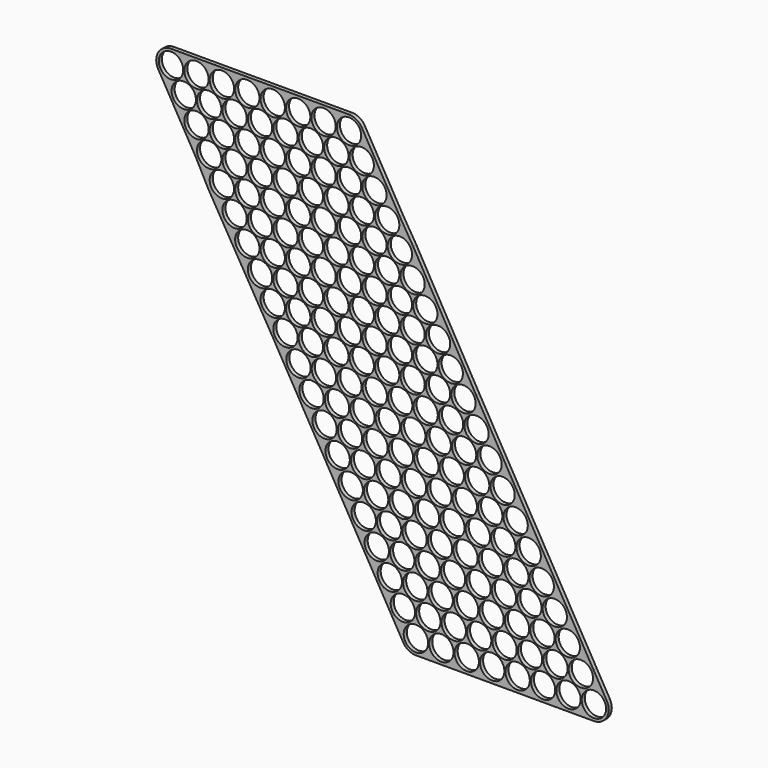
from build123d import *

# Parameters (mm, degrees)
F0_R     = 9.4
F1_DEPTH = 3


with BuildPart() as f1:
    # F0 (on Front) → F1 (new body)
    with BuildSketch(Plane.XZ):
        with BuildLine():
            Line((58.8, 11.4), (0, 11.4))
            ThreePointArc((0, 11.4), (-9.870808, 5.703258), (-9.87645, -5.693483))
            Line((-9.87645, -5.693483), (-0.07645, -22.693483))
            Line((-0.07645, -22.693483), (19.523115, -56.692727))
            Line((19.523115, -56.692727), (28.568722, -74.136112))
            Line((28.568722, -74.136112), (78.372954, -158.778276))
            Line((78.372954, -158.778276), (168.83219, -315.698266))
            Line((168.83219, -315.698266), (178.888915, -333.143605))
            ThreePointArc((178.888915, -333.143605), (183.062107, -337.32093), (188.765365, -338.850122))
            Line((188.765365, -338.850122), (325.965365, -338.850122))
            ThreePointArc((325.965365, -338.850122), (335.836173, -333.15338), (335.841814, -321.75664))
            Line((335.841814, -321.75664), (325.785103, -304.311325))
            Line((325.785103, -304.311325), (235.301621, -147.35044))
            Line((235.301621, -147.35044), (186.680475, -62.074651))
            Line((186.680475, -62.074651), (176.476014, -45.305762))
            Line((176.476014, -45.305762), (147.07645, 5.693483))
            ThreePointArc((147.07645, 5.693483), (142.903258, 9.870808), (137.2, 11.4))
            Line((137.2, 11.4), (98, 11.4))
            Line((98, 11.4), (58.8, 11.4))
        make_face()
        with Locations((158.595233, -275.114179)):
            Circle(F0_R, mode=Mode.SUBTRACT)
        with Locations((148.538522, -257.668864)):
            Circle(F0_R, mode=Mode.SUBTRACT)
        with Locations((138.481811, -240.22355)):
            Circle(F0_R, mode=Mode.SUBTRACT)
        with Locations((158.081811, -240.22355)):
            Circle(F0_R, mode=Mode.SUBTRACT)
        with Locations((128.4251, -222.778235)):
            Circle(F0_R, mode=Mode.SUBTRACT)
        with Locations((148.0251, -222.778235)):
            Circle(F0_R, mode=Mode.SUBTRACT)
        with Locations((118.36839, -205.332921)):
            Circle(F0_R, mode=Mode.SUBTRACT)
        with Locations((108.311679, -187.887606)):
            Circle(F0_R, mode=Mode.SUBTRACT)
        with Locations((98.254968, -170.442292)):
            Circle(F0_R, mode=Mode.SUBTRACT)
        with Locations((117.854968, -170.442292)):
            Circle(F0_R, mode=Mode.SUBTRACT)
        with Locations((137.96839, -205.332921)):
            Circle(F0_R, mode=Mode.SUBTRACT)
        with Locations((127.911679, -187.887606)):
            Circle(F0_R, mode=Mode.SUBTRACT)
        with Locations((157.56839, -205.332921)):
            Circle(F0_R, mode=Mode.SUBTRACT)
        with Locations((147.511679, -187.887606)):
            Circle(F0_R, mode=Mode.SUBTRACT)
        with Locations((137.454968, -170.442292)):
            Circle(F0_R, mode=Mode.SUBTRACT)
        with Locations((157.054968, -170.442292)):
            Circle(F0_R, mode=Mode.SUBTRACT)
        with Locations((188.765365, -327.450122)):
            Circle(F0_R, mode=Mode.SUBTRACT)
        with Locations((178.708654, -310.004808)):
            Circle(F0_R, mode=Mode.SUBTRACT)
        with Locations((198.308654, -310.004808)):
            Circle(F0_R, mode=Mode.SUBTRACT)
        with Locations((208.365365, -327.450122)):
            Circle(F0_R, mode=Mode.SUBTRACT)
        with Locations((227.965365, -327.450122)):
            Circle(F0_R, mode=Mode.SUBTRACT)
        with Locations((247.565365, -327.450122)):
            Circle(F0_R, mode=Mode.SUBTRACT)
        with Locations((217.908654, -310.004808)):
            Circle(F0_R, mode=Mode.SUBTRACT)
        with Locations((237.508654, -310.004808)):
            Circle(F0_R, mode=Mode.SUBTRACT)
        with Locations((168.651943, -292.559493)):
            Circle(F0_R, mode=Mode.SUBTRACT)
        with Locations((178.195233, -275.114179)):
            Circle(F0_R, mode=Mode.SUBTRACT)
        with Locations((188.251943, -292.559493)):
            Circle(F0_R, mode=Mode.SUBTRACT)
        with Locations((197.795233, -275.114179)):
            Circle(F0_R, mode=Mode.SUBTRACT)
        with Locations((168.138522, -257.668864)):
            Circle(F0_R, mode=Mode.SUBTRACT)
        with Locations((187.738522, -257.668864)):
            Circle(F0_R, mode=Mode.SUBTRACT)
        with Locations((207.851943, -292.559493)):
            Circle(F0_R, mode=Mode.SUBTRACT)
        with Locations((227.451943, -292.559493)):
            Circle(F0_R, mode=Mode.SUBTRACT)
        with Locations((217.395233, -275.114179)):
            Circle(F0_R, mode=Mode.SUBTRACT)
        with Locations((247.051943, -292.559493)):
            Circle(F0_R, mode=Mode.SUBTRACT)
        with Locations((236.995233, -275.114179)):
            Circle(F0_R, mode=Mode.SUBTRACT)
        with Locations((207.338522, -257.668864)):
            Circle(F0_R, mode=Mode.SUBTRACT)
        with Locations((226.938522, -257.668864)):
            Circle(F0_R, mode=Mode.SUBTRACT)
        with Locations((246.538522, -257.668864)):
            Circle(F0_R, mode=Mode.SUBTRACT)
        with Locations((267.165365, -327.450122)):
            Circle(F0_R, mode=Mode.SUBTRACT)
        with Locations((286.765365, -327.450122)):
            Circle(F0_R, mode=Mode.SUBTRACT)
        with Locations((257.108654, -310.004808)):
            Circle(F0_R, mode=Mode.SUBTRACT)
        with Locations((276.708654, -310.004808)):
            Circle(F0_R, mode=Mode.SUBTRACT)
        with Locations((306.365365, -327.450122)):
            Circle(F0_R, mode=Mode.SUBTRACT)
        with Locations((325.965365, -327.450122)):
            Circle(F0_R, mode=Mode.SUBTRACT)
        with Locations((296.308654, -310.004808)):
            Circle(F0_R, mode=Mode.SUBTRACT)
        with Locations((315.908654, -310.004808)):
            Circle(F0_R, mode=Mode.SUBTRACT)
        with Locations((266.651943, -292.559493)):
            Circle(F0_R, mode=Mode.SUBTRACT)
        with Locations((256.595233, -275.114179)):
            Circle(F0_R, mode=Mode.SUBTRACT)
        with Locations((286.251943, -292.559493)):
            Circle(F0_R, mode=Mode.SUBTRACT)
        with Locations((276.195233, -275.114179)):
            Circle(F0_R, mode=Mode.SUBTRACT)
        with Locations((266.138522, -257.668864)):
            Circle(F0_R, mode=Mode.SUBTRACT)
        with Locations((285.738522, -257.668864)):
            Circle(F0_R, mode=Mode.SUBTRACT)
        with Locations((305.851943, -292.559493)):
            Circle(F0_R, mode=Mode.SUBTRACT)
        with Locations((295.795233, -275.114179)):
            Circle(F0_R, mode=Mode.SUBTRACT)
        with Locations((177.681811, -240.22355)):
            Circle(F0_R, mode=Mode.SUBTRACT)
        with Locations((197.281811, -240.22355)):
            Circle(F0_R, mode=Mode.SUBTRACT)
        with Locations((167.6251, -222.778235)):
            Circle(F0_R, mode=Mode.SUBTRACT)
        with Locations((187.2251, -222.778235)):
            Circle(F0_R, mode=Mode.SUBTRACT)
        with Locations((216.881811, -240.22355)):
            Circle(F0_R, mode=Mode.SUBTRACT)
        with Locations((236.481811, -240.22355)):
            Circle(F0_R, mode=Mode.SUBTRACT)
        with Locations((206.8251, -222.778235)):
            Circle(F0_R, mode=Mode.SUBTRACT)
        with Locations((226.4251, -222.778235)):
            Circle(F0_R, mode=Mode.SUBTRACT)
        with Locations((246.0251, -222.778235)):
            Circle(F0_R, mode=Mode.SUBTRACT)
        with Locations((177.16839, -205.332921)):
            Circle(F0_R, mode=Mode.SUBTRACT)
        with Locations((167.111679, -187.887606)):
            Circle(F0_R, mode=Mode.SUBTRACT)
        with Locations((196.76839, -205.332921)):
            Circle(F0_R, mode=Mode.SUBTRACT)
        with Locations((186.711679, -187.887606)):
            Circle(F0_R, mode=Mode.SUBTRACT)
        with Locations((206.311679, -187.887606)):
            Circle(F0_R, mode=Mode.SUBTRACT)
        with Locations((176.654968, -170.442292)):
            Circle(F0_R, mode=Mode.SUBTRACT)
        with Locations((196.254968, -170.442292)):
            Circle(F0_R, mode=Mode.SUBTRACT)
        with Locations((216.36839, -205.332921)):
            Circle(F0_R, mode=Mode.SUBTRACT)
        with Locations((225.911679, -187.887606)):
            Circle(F0_R, mode=Mode.SUBTRACT)
        with Locations((235.96839, -205.332921)):
            Circle(F0_R, mode=Mode.SUBTRACT)
        with Locations((245.511679, -187.887606)):
            Circle(F0_R, mode=Mode.SUBTRACT)
        with Locations((215.854968, -170.442292)):
            Circle(F0_R, mode=Mode.SUBTRACT)
        with Locations((235.454968, -170.442292)):
            Circle(F0_R, mode=Mode.SUBTRACT)
        with Locations((256.081811, -240.22355)):
            Circle(F0_R, mode=Mode.SUBTRACT)
        with Locations((275.681811, -240.22355)):
            Circle(F0_R, mode=Mode.SUBTRACT)
        with Locations((265.6251, -222.778235)):
            Circle(F0_R, mode=Mode.SUBTRACT)
        with Locations((255.56839, -205.332921)):
            Circle(F0_R, mode=Mode.SUBTRACT)
        with Locations((68.598693, -118.997733)):
            Circle(F0_R, mode=Mode.SUBTRACT)
        with Locations((58.798911, -101.998111)):
            Circle(F0_R, mode=Mode.SUBTRACT)
        with Locations((48.999129, -84.998489)):
            Circle(F0_R, mode=Mode.SUBTRACT)
        with Locations((68.599129, -84.998489)):
            Circle(F0_R, mode=Mode.SUBTRACT)
        with Locations((88.198257, -152.996977)):
            Circle(F0_R, mode=Mode.SUBTRACT)
        with Locations((107.798257, -152.996977)):
            Circle(F0_R, mode=Mode.SUBTRACT)
        with Locations((78.398475, -135.997355)):
            Circle(F0_R, mode=Mode.SUBTRACT)
        with Locations((97.998475, -135.997355)):
            Circle(F0_R, mode=Mode.SUBTRACT)
        with Locations((117.598475, -135.997355)):
            Circle(F0_R, mode=Mode.SUBTRACT)
        with Locations((127.398257, -152.996977)):
            Circle(F0_R, mode=Mode.SUBTRACT)
        with Locations((146.998257, -152.996977)):
            Circle(F0_R, mode=Mode.SUBTRACT)
        with Locations((137.198475, -135.997355)):
            Circle(F0_R, mode=Mode.SUBTRACT)
        with Locations((156.798475, -135.997355)):
            Circle(F0_R, mode=Mode.SUBTRACT)
        with Locations((88.198693, -118.997733)):
            Circle(F0_R, mode=Mode.SUBTRACT)
        with Locations((78.398911, -101.998111)):
            Circle(F0_R, mode=Mode.SUBTRACT)
        with Locations((107.798693, -118.997733)):
            Circle(F0_R, mode=Mode.SUBTRACT)
        with Locations((97.998911, -101.998111)):
            Circle(F0_R, mode=Mode.SUBTRACT)
        with Locations((117.598911, -101.998111)):
            Circle(F0_R, mode=Mode.SUBTRACT)
        with Locations((88.199129, -84.998489)):
            Circle(F0_R, mode=Mode.SUBTRACT)
        with Locations((107.799129, -84.998489)):
            Circle(F0_R, mode=Mode.SUBTRACT)
        with Locations((127.398693, -118.997733)):
            Circle(F0_R, mode=Mode.SUBTRACT)
        with Locations((137.198911, -101.998111)):
            Circle(F0_R, mode=Mode.SUBTRACT)
        with Locations((146.998693, -118.997733)):
            Circle(F0_R, mode=Mode.SUBTRACT)
        with Locations((156.798911, -101.998111)):
            Circle(F0_R, mode=Mode.SUBTRACT)
        with Locations((127.399129, -84.998489)):
            Circle(F0_R, mode=Mode.SUBTRACT)
        with Locations((146.999129, -84.998489)):
            Circle(F0_R, mode=Mode.SUBTRACT)
        with Locations((29.399564, -50.999244)):
            Circle(F0_R, mode=Mode.SUBTRACT)
        with Locations((19.599782, -33.999622)):
            Circle(F0_R, mode=Mode.SUBTRACT)
        with Locations((39.199347, -67.998866)):
            Circle(F0_R, mode=Mode.SUBTRACT)
        with Locations((58.799347, -67.998866)):
            Circle(F0_R, mode=Mode.SUBTRACT)
        with Locations((48.999564, -50.999244)):
            Circle(F0_R, mode=Mode.SUBTRACT)
        with Locations((39.199782, -33.999622)):
            Circle(F0_R, mode=Mode.SUBTRACT)
        with Locations((68.599564, -50.999244)):
            Circle(F0_R, mode=Mode.SUBTRACT)
        with Locations((58.799782, -33.999622)):
            Circle(F0_R, mode=Mode.SUBTRACT)
        with BuildLine():
            ThreePointArc((9.8, -26.4), (5.097314, -25.139087), (1.656261, -21.694626))
            ThreePointArc((1.656261, -21.694626), (7.370097, -7.919495), (19.2, -17))
            ThreePointArc((19.2, -17), (16.446804, -23.646804), (9.8, -26.4))
        make_face(mode=Mode.SUBTRACT)
        with Locations((29.4, -17)):
            Circle(F0_R, mode=Mode.SUBTRACT)
        with BuildLine():
            ThreePointArc((0, 9.4), (6.646804, 6.646804), (9.4, 0))
            ThreePointArc((9.4, 0), (2.429903, -9.080505), (-8.143739, -4.694626))
            ThreePointArc((-8.143739, -4.694626), (-8.139087, 4.702686), (0, 9.4))
        make_face(mode=Mode.SUBTRACT)
        with BuildLine():
            ThreePointArc((29, 0), (12.953196, -6.646804), (19.6, 9.4))
            ThreePointArc((19.6, 9.4), (26.246804, 6.646804), (29, 0))
        make_face(mode=Mode.SUBTRACT)
        with Locations((49, -17)):
            Circle(F0_R, mode=Mode.SUBTRACT)
        with BuildLine():
            ThreePointArc((76.743739, -12.305374), (77.680505, -14.570097), (78, -17))
            ThreePointArc((78, -17), (75.246804, -23.646804), (68.6, -26.4))
            ThreePointArc((68.6, -26.4), (60.460913, -12.297314), (76.743739, -12.305374))
        make_face(mode=Mode.SUBTRACT)
        with BuildLine():
            ThreePointArc((48.6, 0), (32.553196, -6.646804), (39.2, 9.4))
            ThreePointArc((39.2, 9.4), (45.846804, 6.646804), (48.6, 0))
        make_face(mode=Mode.SUBTRACT)
        with BuildLine():
            ThreePointArc((68.2, 0), (52.153196, -6.646804), (58.8, 9.4))
            ThreePointArc((58.8, 9.4), (63.502686, 8.139087), (66.943739, 4.694626))
            ThreePointArc((66.943739, 4.694626), (67.880505, 2.429903), (68.2, 0))
        make_face(mode=Mode.SUBTRACT)
        with Locations((78.399347, -67.998866)):
            Circle(F0_R, mode=Mode.SUBTRACT)
        with Locations((97.999347, -67.998866)):
            Circle(F0_R, mode=Mode.SUBTRACT)
        with Locations((117.599347, -67.998866)):
            Circle(F0_R, mode=Mode.SUBTRACT)
        with Locations((88.199564, -50.999244)):
            Circle(F0_R, mode=Mode.SUBTRACT)
        with Locations((78.399782, -33.999622)):
            Circle(F0_R, mode=Mode.SUBTRACT)
        with Locations((107.799564, -50.999244)):
            Circle(F0_R, mode=Mode.SUBTRACT)
        with Locations((97.999782, -33.999622)):
            Circle(F0_R, mode=Mode.SUBTRACT)
        with Locations((117.599782, -33.999622)):
            Circle(F0_R, mode=Mode.SUBTRACT)
        with Locations((137.199347, -67.998866)):
            Circle(F0_R, mode=Mode.SUBTRACT)
        with Locations((156.799347, -67.998866)):
            Circle(F0_R, mode=Mode.SUBTRACT)
        with Locations((127.399564, -50.999244)):
            Circle(F0_R, mode=Mode.SUBTRACT)
        with Locations((137.199782, -33.999622)):
            Circle(F0_R, mode=Mode.SUBTRACT)
        with Locations((146.999564, -50.999244)):
            Circle(F0_R, mode=Mode.SUBTRACT)
        with Locations((156.799782, -33.999622)):
            Circle(F0_R, mode=Mode.SUBTRACT)
        with Locations((88.2, -17)):
            Circle(F0_R, mode=Mode.SUBTRACT)
        with Locations((107.8, -17)):
            Circle(F0_R, mode=Mode.SUBTRACT)
        with Locations((78.4, 0)):
            Circle(F0_R, mode=Mode.SUBTRACT)
        with Locations((98, 0)):
            Circle(F0_R, mode=Mode.SUBTRACT)
        with Locations((117.6, 0)):
            Circle(F0_R, mode=Mode.SUBTRACT)
        with Locations((127.4, -17)):
            Circle(F0_R, mode=Mode.SUBTRACT)
        with Locations((147, -17)):
            Circle(F0_R, mode=Mode.SUBTRACT)
        with Locations((137.2, 0)):
            Circle(F0_R, mode=Mode.SUBTRACT)
        with Locations((166.598257, -152.996977)):
            Circle(F0_R, mode=Mode.SUBTRACT)
        with Locations((186.198257, -152.996977)):
            Circle(F0_R, mode=Mode.SUBTRACT)
        with Locations((205.798257, -152.996977)):
            Circle(F0_R, mode=Mode.SUBTRACT)
        with Locations((176.398475, -135.997355)):
            Circle(F0_R, mode=Mode.SUBTRACT)
        with Locations((195.998475, -135.997355)):
            Circle(F0_R, mode=Mode.SUBTRACT)
        with Locations((225.398257, -152.996977)):
            Circle(F0_R, mode=Mode.SUBTRACT)
        with Locations((215.598475, -135.997355)):
            Circle(F0_R, mode=Mode.SUBTRACT)
        with Locations((166.598693, -118.997733)):
            Circle(F0_R, mode=Mode.SUBTRACT)
        with Locations((176.398911, -101.998111)):
            Circle(F0_R, mode=Mode.SUBTRACT)
        with Locations((186.198693, -118.997733)):
            Circle(F0_R, mode=Mode.SUBTRACT)
        with Locations((205.798693, -118.997733)):
            Circle(F0_R, mode=Mode.SUBTRACT)
        with Locations((195.998911, -101.998111)):
            Circle(F0_R, mode=Mode.SUBTRACT)
        with Locations((166.599129, -84.998489)):
            Circle(F0_R, mode=Mode.SUBTRACT)
        with Locations((186.199129, -84.998489)):
            Circle(F0_R, mode=Mode.SUBTRACT)
        with Locations((176.399347, -67.998866)):
            Circle(F0_R, mode=Mode.SUBTRACT)
        with Locations((166.599564, -50.999244)):
            Circle(F0_R, mode=Mode.SUBTRACT)
    extrude(amount=F1_DEPTH)


solid = f1.part
